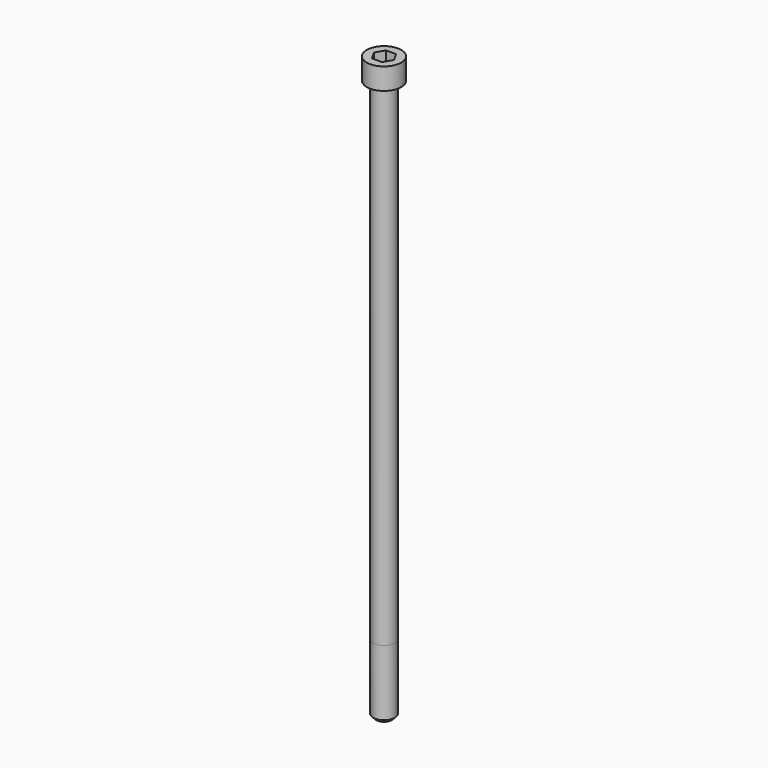
from build123d import *

# Parameters (mm, degrees)
POCKET_DEPTH = 8.07


with BuildPart() as part:
    # Sketch → Revolve (revolve)
    with BuildSketch(Plane.YZ):
        with BuildLine():
            Line((4.999, 0), (8, 0))
            Line((8, 0), (8, 9.97229))
            ThreePointArc((8, 9.97229), (7.991884, 9.991884), (7.97229, 10))
            Line((7.97229, 10), (0, 10))
            Line((0, -260), (0, 10))
            Line((3.5, -260), (0, -260))
            Line((5, -258.5), (3.5, -260))
            Line((5, -228), (5, -258.5))
            Line((4.999, 0), (5, -228))
        make_face()
    revolve(axis=Axis((0, 0, 0), (0, 0, 1)))

    # Sketch001 → Pocket (cut)
    with BuildSketch(Plane.XY.offset(10)):
        Polygon((4.659217, 0), (2.329608, 4.035), (-2.329608, 4.035), (-4.659217, 0), (-2.329608, -4.035), (2.329608, -4.035), align=None)
    extrude(amount=-POCKET_DEPTH, mode=Mode.SUBTRACT)


solid = part.part
